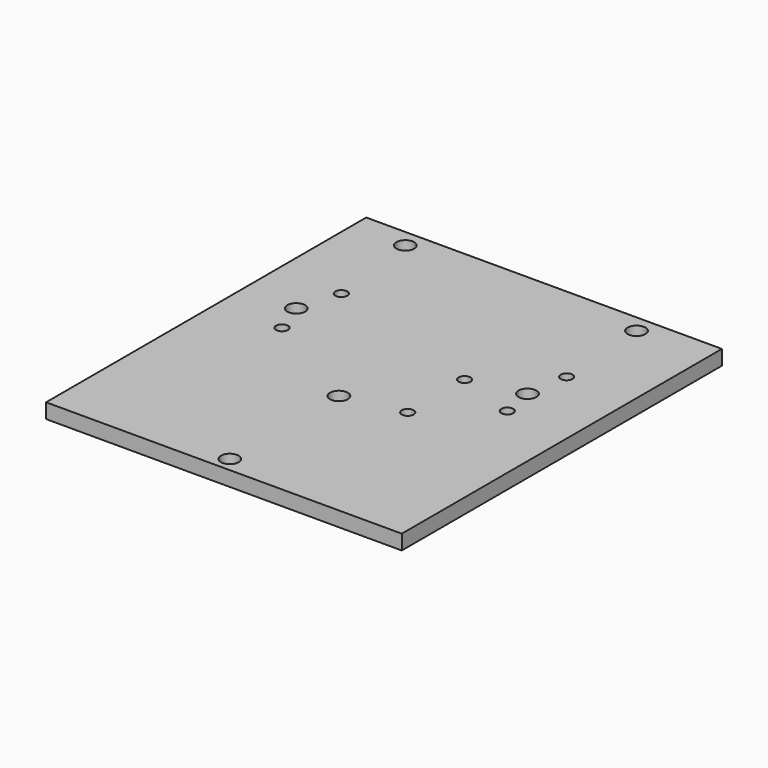
from build123d import *

# Parameters (mm, degrees)
BOX_W        = 120
BOX_H        = 135
BOX_DEPTH    = 5
SKETCH_R     = 2
SKETCH_R_2   = 3
POCKET_DEPTH = 5.001


with BuildPart() as part:
    # Box → Box (new body)
    with BuildSketch(Plane.XY):
        with Locations((60, 67.5)):
            Rectangle(BOX_W, BOX_H)
    extrude(amount=BOX_DEPTH)

    # Sketch → Pocket (cut, through all)
    with BuildSketch(Plane.XY.offset(5)):
        with Locations((98, 97)):
            Circle(SKETCH_R)
        with Locations((96, 129)):
            Circle(SKETCH_R_2)
        with Locations((98, 72)):
            Circle(SKETCH_R)
        with Locations((18, 129)):
            Circle(SKETCH_R_2)
        with Locations((96, 83)):
            Circle(SKETCH_R_2)
        with Locations((18, 83)):
            Circle(SKETCH_R_2)
        with Locations((58, 5)):
            Circle(SKETCH_R_2)
        with Locations((58, 51)):
            Circle(SKETCH_R_2)
        with Locations((22, 97)):
            Circle(SKETCH_R)
        with Locations((22, 72)):
            Circle(SKETCH_R)
        with Locations((78, 79)):
            Circle(SKETCH_R)
        with Locations((78, 55)):
            Circle(SKETCH_R)
    extrude(amount=-POCKET_DEPTH, mode=Mode.SUBTRACT)


solid = part.part
